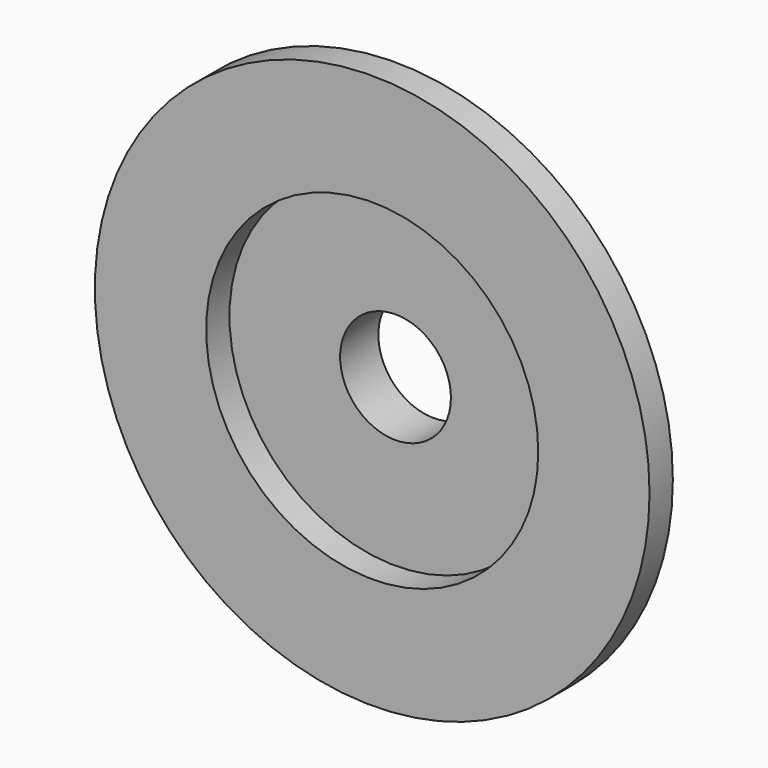
from build123d import *

# Parameters (mm, degrees)
F0_R     = 36.191422
F0_R_2   = 12.073269
F1_DEPTH = 10.414
F0_R_3   = 60.450528
F2_DEPTH = 6.35
F3_R     = 50.4571
F3_R_2   = 36.191422
F4_DEPTH = 6.858


with BuildPart() as f1:
    # F0 (on Front) → F1 (new body)
    with BuildSketch(Plane.XZ):
        Circle(F0_R)
        Circle(F0_R_2, mode=Mode.SUBTRACT)
    extrude(amount=-F1_DEPTH)


with BuildPart() as f2:
    # F0 (on Front) → F2 (new body)
    with BuildSketch(Plane.XZ):
        Circle(F0_R_3)
        Circle(F0_R, mode=Mode.SUBTRACT)
    extrude(amount=F2_DEPTH)


with BuildPart() as f4:
    # F3 (on face) → F4 (new body)
    with BuildSketch(Plane.XZ):
        Circle(F3_R)
        Circle(F3_R_2, mode=Mode.SUBTRACT)
    extrude(amount=-F4_DEPTH)


solid = Compound([f1.part, f2.part, f4.part])
